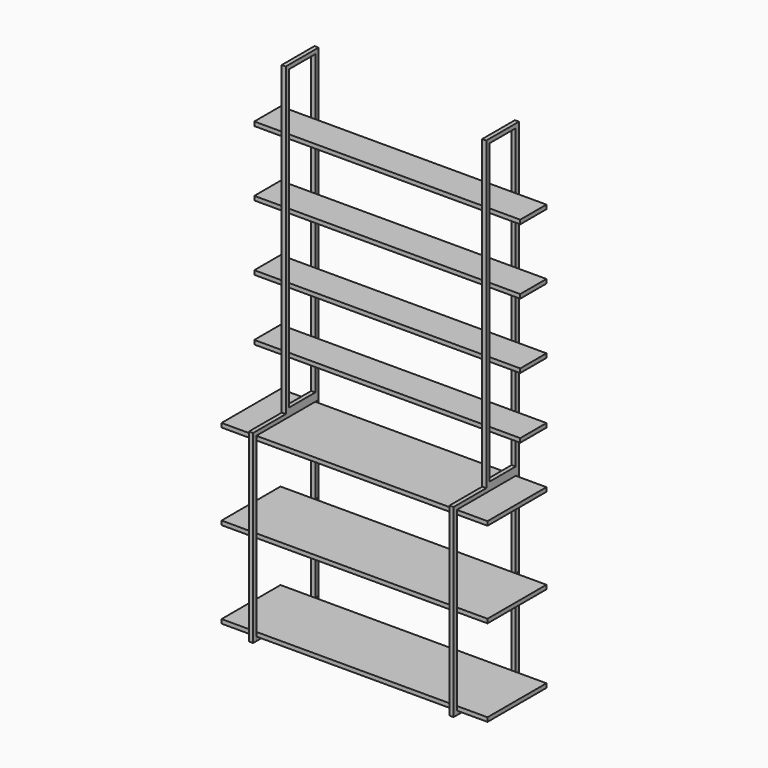
from build123d import *

# Parameters (mm, degrees)
F0_W      = 200
F0_H      = 1495.990298
F1_DEPTH  = 1300
F2_W      = 150
F2_H      = 300
F2_W_2    = 960
F2_H_2    = 280
F2_H_3    = 235.990298
F3_DEPTH  = 200
F4_W      = 160
F4_H      = 280
F4_H_2    = 300
F4_H_3    = 215.990298
F5_DEPTH  = 1150.001
F6_W      = 150
F6_H      = 20
F6_W_2    = 960
F7_DEPTH  = 1195.990298
F8_W      = 150
F8_H      = 404.009702
F8_H_2    = 400
F8_W_2    = 960
F8_H_3    = 20
F9_DEPTH  = 400.001
F10_W     = 360
F10_H     = 400
F10_H_2   = 404.009702
F11_DEPTH = 1150.001
F12_W     = 150
F12_H     = 20
F12_W_2   = 959.315732
F12_W_3   = 960.244403
F13_DEPTH = 884.010702


with BuildPart() as f1:
    # F0 (on Right) → F1 (new body)
    with BuildSketch(Plane.YZ):
        Polygon((-200, -1200), (200, -1200), (200, -295.990298), (0, -295.990298), (-200, -295.990298), align=None)
        with Locations((100, 452.004851)):
            Rectangle(F0_W, F0_H)
    extrude(amount=F1_DEPTH)

    # F2 (on face) → F3 (cut, through all)
    with BuildSketch(Plane.XZ):
        with Locations((75, 1050)):
            Rectangle(F2_W, F2_H)
        with Locations((650, 1050)):
            Rectangle(F2_W_2, F2_H)
        with Locations((1225, 1050)):
            Rectangle(F2_W, F2_H)
        with Locations((75, 730)):
            Rectangle(F2_W, F2_H)
        with Locations((650, 730)):
            Rectangle(F2_W_2, F2_H)
        with Locations((1225, 730)):
            Rectangle(F2_W, F2_H)
        with Locations((75, 410)):
            Rectangle(F2_W, F2_H)
        with Locations((650, 410)):
            Rectangle(F2_W_2, F2_H)
        with Locations((1225, 410)):
            Rectangle(F2_W, F2_H)
        with Locations((75, 100)):
            Rectangle(F2_W, F2_H_2)
        with Locations((650, 100)):
            Rectangle(F2_W_2, F2_H_2)
        with Locations((1225, 100)):
            Rectangle(F2_W, F2_H_2)
        with Locations((75, -177.995149)):
            Rectangle(F2_W, F2_H_3)
        with Locations((650, -177.995149)):
            Rectangle(F2_W_2, F2_H_3)
        with Locations((1225, -177.995149)):
            Rectangle(F2_W, F2_H_3)
    extrude(amount=-F3_DEPTH, mode=Mode.SUBTRACT)

    # F4 (on face) → F5 (cut, through all)
    with BuildSketch(Plane(origin=(150, 0, 0), x_dir=(0, -1, 0), z_dir=(-1, 0, 0))):
        with Locations((-100, 1040)):
            Rectangle(F4_W, F4_H)
        with Locations((-100, 730)):
            Rectangle(F4_W, F4_H_2)
        with Locations((-100, 410)):
            Rectangle(F4_W, F4_H_2)
        with Locations((-100, 100)):
            Rectangle(F4_W, F4_H)
        with Locations((-100, -167.995149)):
            Rectangle(F4_W, F4_H_3)
    extrude(amount=-F5_DEPTH, mode=Mode.SUBTRACT)

    # F6 (on face) → F7 (cut, through all)
    with BuildSketch(Plane.XY.offset(900)):
        with Locations((75, 190)):
            Rectangle(F6_W, F6_H)
        with Locations((75, 10)):
            Rectangle(F6_W, F6_H)
        with Locations((1225, 190)):
            Rectangle(F6_W, F6_H)
        with Locations((1225, 10)):
            Rectangle(F6_W, F6_H)
        with Locations((650, 190)):
            Rectangle(F6_W_2, F6_H)
        with Locations((650, 10)):
            Rectangle(F6_W_2, F6_H)
    extrude(amount=-F7_DEPTH, mode=Mode.SUBTRACT)

    # F8 (on face) → F9 (cut, through all)
    with BuildSketch(Plane.XZ.offset(200)):
        with Locations((1225, -957.995149)):
            Rectangle(F8_W, F8_H)
        with Locations((1225, -535.990298)):
            Rectangle(F8_W, F8_H_2)
        with Locations((650, -535.990298)):
            Rectangle(F8_W_2, F8_H_2)
        with Locations((650, -957.995149)):
            Rectangle(F8_W_2, F8_H)
        with Locations((75, -535.990298)):
            Rectangle(F8_W, F8_H_2)
        with Locations((75, -957.995149)):
            Rectangle(F8_W, F8_H)
        with Locations((75, -305.990298)):
            Rectangle(F8_W, F8_H_3)
        with Locations((650, -305.990298)):
            Rectangle(F8_W_2, F8_H_3)
        with Locations((1225, -305.990298)):
            Rectangle(F8_W, F8_H_3)
        with Locations((75, -1190)):
            Rectangle(F8_W, F8_H_3)
        with Locations((650, -1190)):
            Rectangle(F8_W_2, F8_H_3)
        with Locations((1225, -1190)):
            Rectangle(F8_W, F8_H_3)
    extrude(amount=-F9_DEPTH, mode=Mode.SUBTRACT)

    # F10 (on face) → F11 (cut, through all)
    with BuildSketch(Plane(origin=(150, 0, 0), x_dir=(0, -1, 0), z_dir=(-1, 0, 0))):
        with Locations((0, -535.990298)):
            Rectangle(F10_W, F10_H)
        with Locations((0, -957.995149)):
            Rectangle(F10_W, F10_H_2)
    extrude(amount=-F11_DEPTH, mode=Mode.SUBTRACT)

    # F12 (on face) → F13 (cut, through all)
    with BuildSketch(Plane.XY.offset(-315.990298)):
        with Locations((75, 190)):
            Rectangle(F12_W, F12_H)
        with Locations((75, -190)):
            Rectangle(F12_W, F12_H)
        with Locations((650.439762, 190)):
            Rectangle(F12_W_2, F12_H)
        with Locations((1225.097628, 190)):
            Rectangle(F12_W, F12_H)
        with Locations((1225, -190)):
            Rectangle(F12_W, F12_H)
        with Locations((649.975427, -190)):
            Rectangle(F12_W_3, F12_H)
    extrude(amount=-F13_DEPTH, mode=Mode.SUBTRACT)


solid = f1.part
